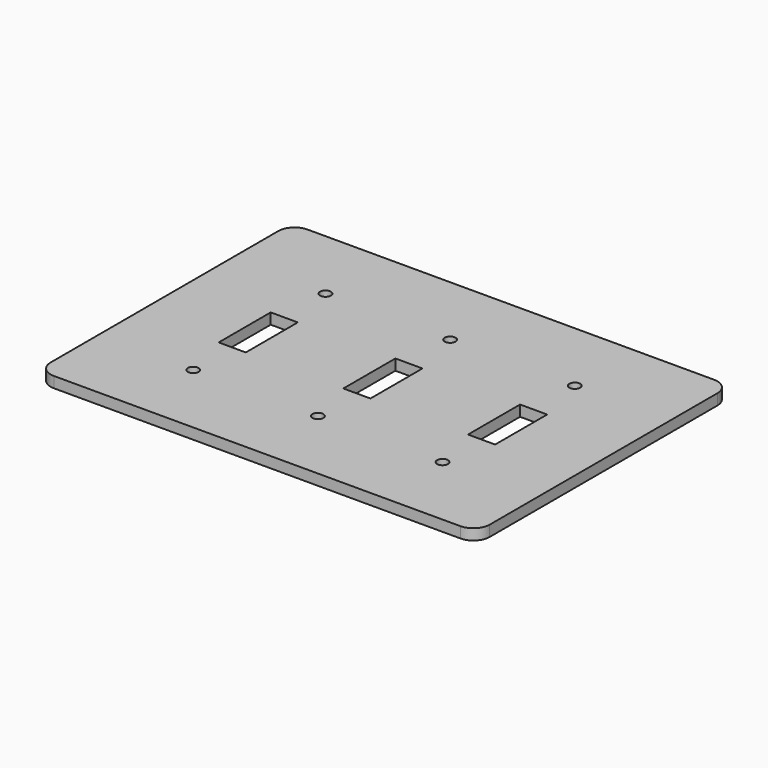
from build123d import *

# Parameters (mm, degrees)
F0_W     = 162
F0_H     = 117
F0_R     = 2
F0_W_2   = 10
F0_H_2   = 24
F1_DEPTH = 4
F2_R     = 6


with BuildPart() as f1:
    # F0 (on Top) → F1 (new body)
    with BuildSketch(Plane.XY):
        with Locations((81, 58.5)):
            Rectangle(F0_W, F0_H)
        with Locations((35, 28)):
            Circle(F0_R, mode=Mode.SUBTRACT)
        with Locations((35, 58)):
            Rectangle(F0_W_2, F0_H_2, mode=Mode.SUBTRACT)
        with Locations((81, 28)):
            Circle(F0_R, mode=Mode.SUBTRACT)
        with Locations((127, 28)):
            Circle(F0_R, mode=Mode.SUBTRACT)
        with Locations((81, 58)):
            Rectangle(F0_W_2, F0_H_2, mode=Mode.SUBTRACT)
        with Locations((127, 58)):
            Rectangle(F0_W_2, F0_H_2, mode=Mode.SUBTRACT)
        with Locations((35, 89)):
            Circle(F0_R, mode=Mode.SUBTRACT)
        with Locations((81, 89)):
            Circle(F0_R, mode=Mode.SUBTRACT)
        with Locations((127, 89)):
            Circle(F0_R, mode=Mode.SUBTRACT)
    extrude(amount=F1_DEPTH)

    # F2
    f2_edges = [f1.edges().sort_by_distance(p)[0] for p in [
        (0, 117, 2),
        (162, 117, 2),
        (162, 0, 2),
        (0, 0, 2),
    ]]
    fillet(f2_edges, radius=F2_R)


solid = f1.part
